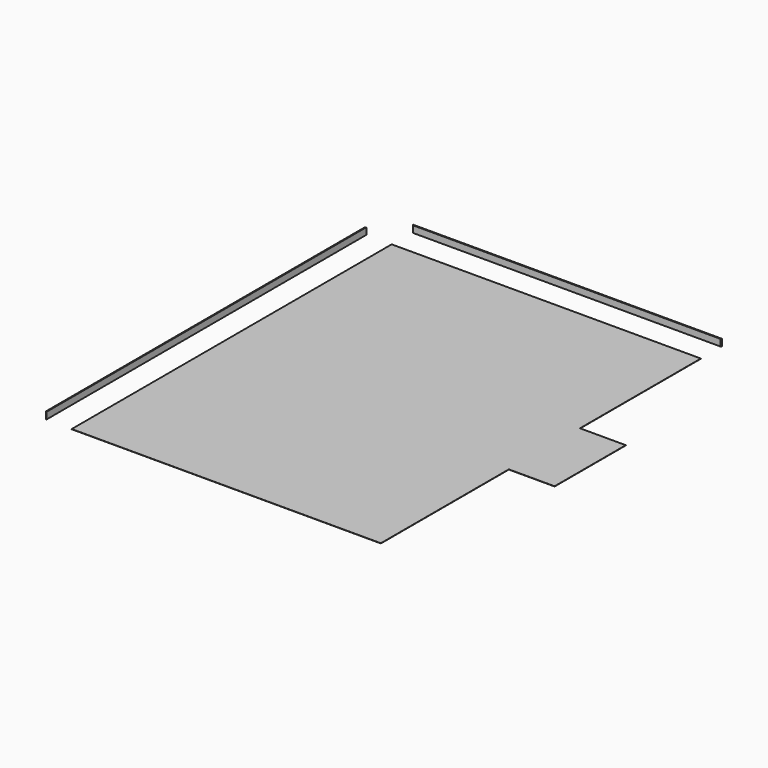
from build123d import *

# Parameters (mm, degrees)
F1_DEPTH = 2
F3_DEPTH = 66
F5_DEPTH = 66


with BuildPart() as f1:
    # F0 (on Top) → F1 (new body)
    with BuildSketch(Plane.XY):
        Polygon((0, 3933), (0, 0), (3040, 0), (3040, 1573), (3490, 1573), (3490, 2448), (3040, 2448), (3040, 3933), align=None)
    extrude(amount=-F1_DEPTH)


with BuildPart() as f3:
    # F2 (on Top) → F3 (new body)
    with BuildSketch(Plane.XY):
        Polygon((-259, 9), (-250, 0), (-250, 3933), (-259, 3924), align=None)
    extrude(amount=F3_DEPTH)


with BuildPart() as f5:
    # F4 (on Top) → F5 (new body)
    with BuildSketch(Plane.XY):
        Polygon((3040, 4192), (0, 4192), (9, 4183), (3031, 4183), align=None)
    extrude(amount=F5_DEPTH)


solid = Compound([f1.part, f3.part, f5.part])
